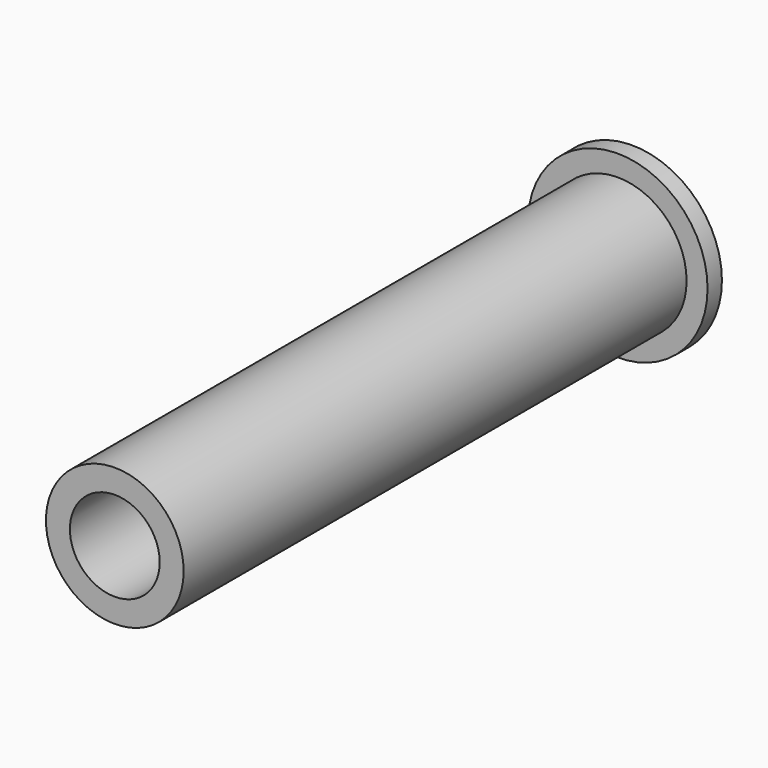
from build123d import *

# Parameters (mm, degrees)
F0_R     = 7.5
F1_DEPTH = 1.5
F2_R     = 5.75
F2_R_2   = 3.75
F3_DEPTH = 52.5


with BuildPart() as f1:
    # F0 (on Front) → F1 (new body)
    with BuildSketch(Plane.XZ):
        Circle(F0_R)
    extrude(amount=F1_DEPTH)

    # F2 (on face) → F3 (join)
    with BuildSketch(Plane.XZ.offset(1.5)):
        Circle(F2_R)
        Circle(F2_R_2, mode=Mode.SUBTRACT)
    extrude(amount=F3_DEPTH)


solid = f1.part
